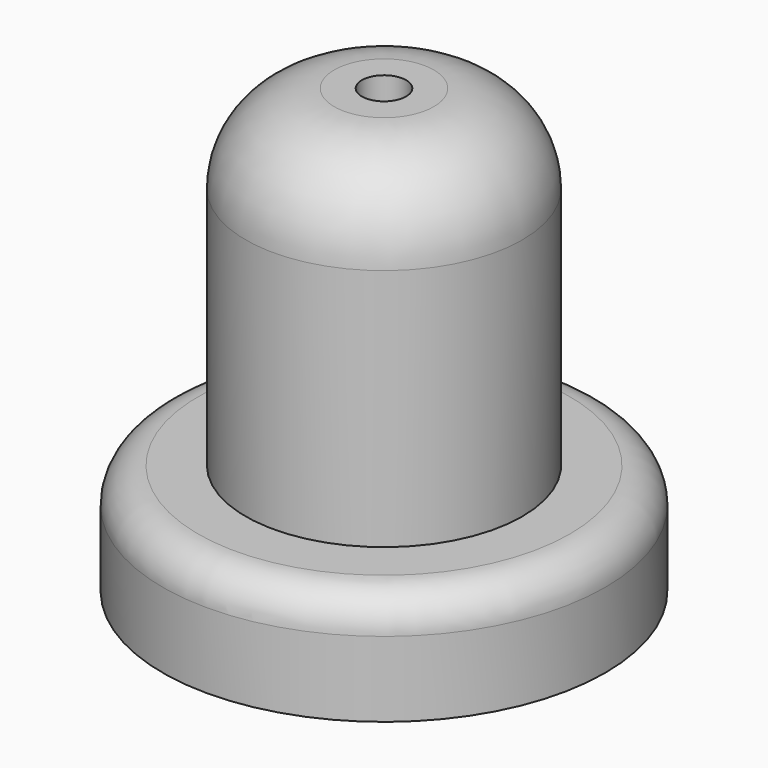
from build123d import *

# Parameters (mm, degrees)
F0_R     = 7.9375
F2_DEPTH = 25.4
F1_R     = 12.7
F3_DEPTH = 6.35
F4_R     = 5.08
F5_R     = 2.032
F6_R     = 1.27
F7_DEPTH = 38.1


with BuildPart() as f2:
    # F0 (on Top) → F2 (new body)
    with BuildSketch(Plane.XY):
        Circle(F0_R)
    extrude(amount=F2_DEPTH)

    # F1 (on Top) → F3 (join)
    with BuildSketch(Plane.XY):
        Circle(F1_R)
    extrude(amount=F3_DEPTH)

    # F4
    f4_edges = [f2.edges().sort_by_distance(p)[0] for p in [
        (-7.9375, 0, 25.4),
    ]]
    fillet(f4_edges, radius=F4_R)

    # F5
    f5_edges = [f2.edges().sort_by_distance(p)[0] for p in [
        (-12.7, 0, 6.35),
    ]]
    fillet(f5_edges, radius=F5_R)

    # F6 (on face) → F7 (cut)
    with BuildSketch(Plane.XY.offset(25.4)):
        Circle(F6_R)
    extrude(amount=-F7_DEPTH, mode=Mode.SUBTRACT)


solid = f2.part
